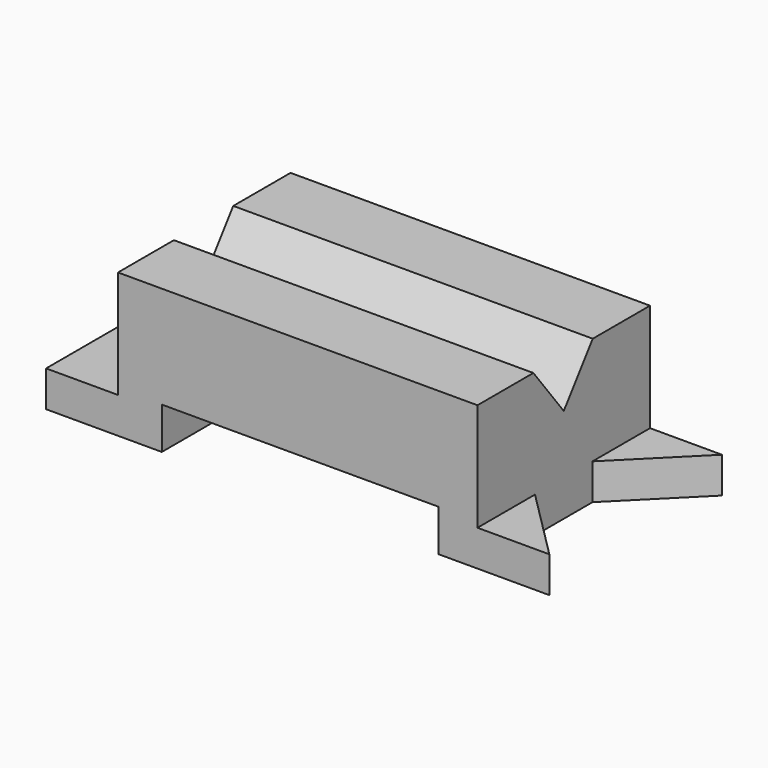
from build123d import *

# Parameters (mm, degrees)
F0_W      = 152.4
F0_H      = 76.2
F1_DEPTH  = 50.8
F3_DEPTH  = 50.801
F4_DEPTH  = 38.1
F5_DEPTH  = 38.1
F7_DEPTH  = 127.001
F8_W      = 97.740334
F8_H      = 14.750447
F9_DEPTH  = 76.201
F10_W     = 76.2
F10_H     = 12.7
F11_DEPTH = 25.4


with BuildPart() as f1:
    # F0 (on Top) → F1 (new body)
    with BuildSketch(Plane.XY):
        with Locations((2.035878, 0)):
            Rectangle(F0_W, F0_H)
    extrude(amount=F1_DEPTH)

    # F2 (on face) → F3 (cut, through all)
    with BuildSketch(Plane.XY.offset(50.8)):
        Polygon((78.235878, -38.1), (78.235878, 38.1), (52.835878, 12.7), (52.835878, -12.7), align=None)
    extrude(amount=-F3_DEPTH, mode=Mode.SUBTRACT)

    # F2 (on face) → F4 (cut)
    with BuildSketch(Plane.XY.offset(50.8)):
        Polygon((52.835878, 12.7), (78.235878, 38.1), (52.835878, 38.1), align=None)
    extrude(amount=-F4_DEPTH, mode=Mode.SUBTRACT)

    # F2 (on face) → F5 (cut)
    with BuildSketch(Plane.XY.offset(50.8)):
        Polygon((52.835878, -38.1), (78.235878, -38.1), (52.835878, -12.7), align=None)
    extrude(amount=-F5_DEPTH, mode=Mode.SUBTRACT)

    # F6 (on face) → F7 (cut, through all)
    with BuildSketch(Plane.YZ.offset(52.835878)):
        Polygon((12.813521, 50.8), (-13.409496, 50.8), (0, 33.523746), align=None)
    extrude(amount=-F7_DEPTH, mode=Mode.SUBTRACT)

    # F8 (on face) → F9 (cut, through all)
    with BuildSketch(Plane.XZ.offset(38.1)):
        with Locations((-9.811988, 7.375223)):
            Rectangle(F8_W, F8_H)
    extrude(amount=-F9_DEPTH, mode=Mode.SUBTRACT)

    # F10 (on face) → F11 (join)
    with BuildSketch(Plane(origin=(-74.164122, 0, 0), x_dir=(0, -1, 0), z_dir=(-1, 0, 0))):
        with Locations((0, 6.35)):
            Rectangle(F10_W, F10_H)
    extrude(amount=F11_DEPTH)


solid = f1.part
